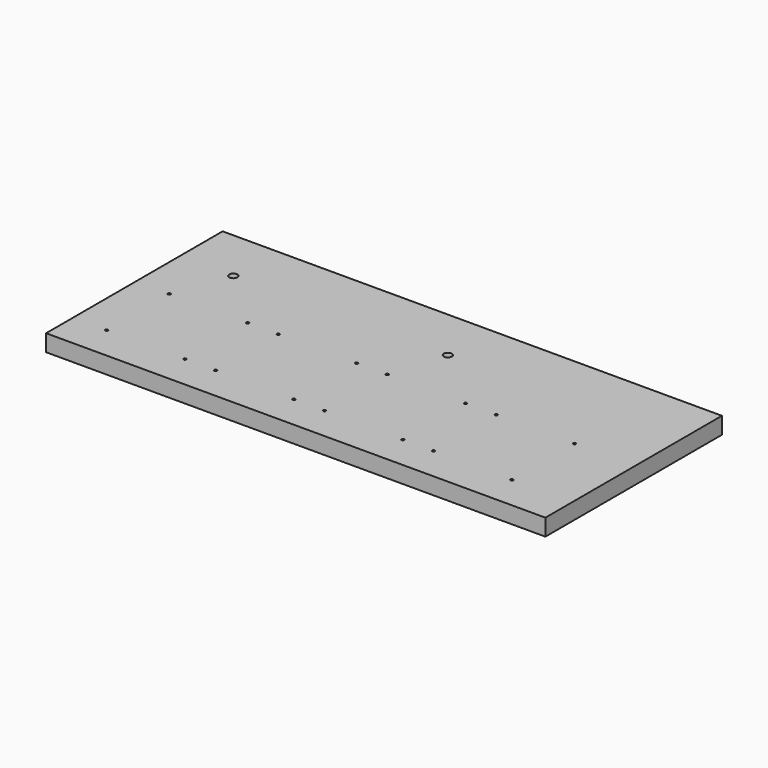
from build123d import *

# Parameters (mm, degrees)
F0_W     = 186.21
F0_H     = 82.29
F1_DEPTH = 6.25
F2_D     = 1
F3_D     = 3


with BuildPart() as f1:
    # F0 (on Top) → F1 (new body)
    with BuildSketch(Plane.XY):
        with Locations((83.105, 31.145)):
            Rectangle(F0_W, F0_H)
    extrude(amount=F1_DEPTH)

    # F2 (through all)
    with Locations(Plane(origin=(0, 0, 0), x_dir=(1, 0, 0), z_dir=(0, 0, -1))):
        with Locations((2.54, -2.54), (2.54, -31.75), (31.75, -31.75), (31.75, -2.54), (43.18, -2.54), (43.18, -31.75), (72.39, -31.75), (72.39, -2.54), (83.82, -2.54), (83.82, -31.75), (113.03, -31.75), (113.03, -2.54), (124.46, -2.54), (124.46, -31.75), (153.67, -31.75), (153.67, -2.54)):
            Hole(F2_D / 2)

    # F3 (through all)
    with Locations(Plane(origin=(0, 0, 0), x_dir=(1, 0, 0), z_dir=(0, 0, -1))):
        with Locations((10, -52.29), (90, -52.29)):
            Hole(F3_D / 2)


solid = f1.part
